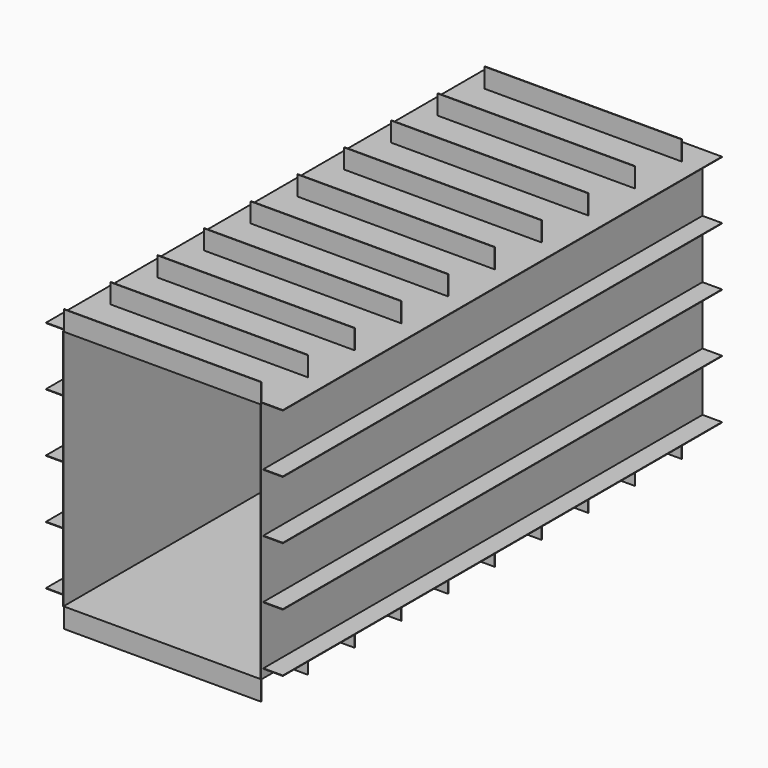
from build123d import *

# Parameters (mm, degrees)
F0_W     = 2032
F0_H     = 2490
F0_W_2   = 2026
F0_H_2   = 2484
F1_DEPTH = 5668
F2_W     = 200
F2_H     = 5
F3_DEPTH = 5638
F4_W     = 5
F4_H     = 200
F5_DEPTH = 2026


with BuildPart() as f1:
    # F0 (on Front) → F1 (new body)
    with BuildSketch(Plane.XZ):
        Rectangle(F0_W, F0_H)
        Rectangle(F0_W_2, F0_H_2, mode=Mode.SUBTRACT)
    extrude(amount=F1_DEPTH)

    # F2 (on Front) → F3 (join)
    with BuildSketch(Plane.XZ):
        with Locations((1116, 1242.5)):
            Rectangle(F2_W, F2_H)
        with Locations((1116, 642.5)):
            Rectangle(F2_W, F2_H)
        with Locations((1116, 42.5)):
            Rectangle(F2_W, F2_H)
        with Locations((1116, -557.5)):
            Rectangle(F2_W, F2_H)
        with Locations((1116, -1157.5)):
            Rectangle(F2_W, F2_H)
        with Locations((-1116, 1242.5)):
            Rectangle(F2_W, F2_H)
        with Locations((-1116, 642.5)):
            Rectangle(F2_W, F2_H)
        with Locations((-1116, 42.5)):
            Rectangle(F2_W, F2_H)
        with Locations((-1116, -557.5)):
            Rectangle(F2_W, F2_H)
        with Locations((-1116, -1157.5)):
            Rectangle(F2_W, F2_H)
    extrude(amount=F3_DEPTH)

    # F4 (on face) → F5 (join)
    with BuildSketch(Plane.YZ.offset(1016)):
        with Locations((-5665.5, 1345)):
            Rectangle(F4_W, F4_H)
        with Locations((-5065.5, 1345)):
            Rectangle(F4_W, F4_H)
        with Locations((-4465.5, 1345)):
            Rectangle(F4_W, F4_H)
        with Locations((-3865.5, 1345)):
            Rectangle(F4_W, F4_H)
        with Locations((-3265.5, 1345)):
            Rectangle(F4_W, F4_H)
        with Locations((-2665.5, 1345)):
            Rectangle(F4_W, F4_H)
        with Locations((-2065.5, 1345)):
            Rectangle(F4_W, F4_H)
        with Locations((-1465.5, 1345)):
            Rectangle(F4_W, F4_H)
        with Locations((-865.5, 1345)):
            Rectangle(F4_W, F4_H)
        with Locations((-265.5, 1345)):
            Rectangle(F4_W, F4_H)
        with Locations((-5665.5, -1345)):
            Rectangle(F4_W, F4_H)
        with Locations((-5065.5, -1345)):
            Rectangle(F4_W, F4_H)
        with Locations((-4465.5, -1345)):
            Rectangle(F4_W, F4_H)
        with Locations((-3865.5, -1345)):
            Rectangle(F4_W, F4_H)
        with Locations((-3265.5, -1345)):
            Rectangle(F4_W, F4_H)
        with Locations((-2665.5, -1345)):
            Rectangle(F4_W, F4_H)
        with Locations((-2065.5, -1345)):
            Rectangle(F4_W, F4_H)
        with Locations((-1465.5, -1345)):
            Rectangle(F4_W, F4_H)
        with Locations((-865.5, -1345)):
            Rectangle(F4_W, F4_H)
        with Locations((-265.5, -1345)):
            Rectangle(F4_W, F4_H)
    extrude(amount=-F5_DEPTH)


solid = f1.part
